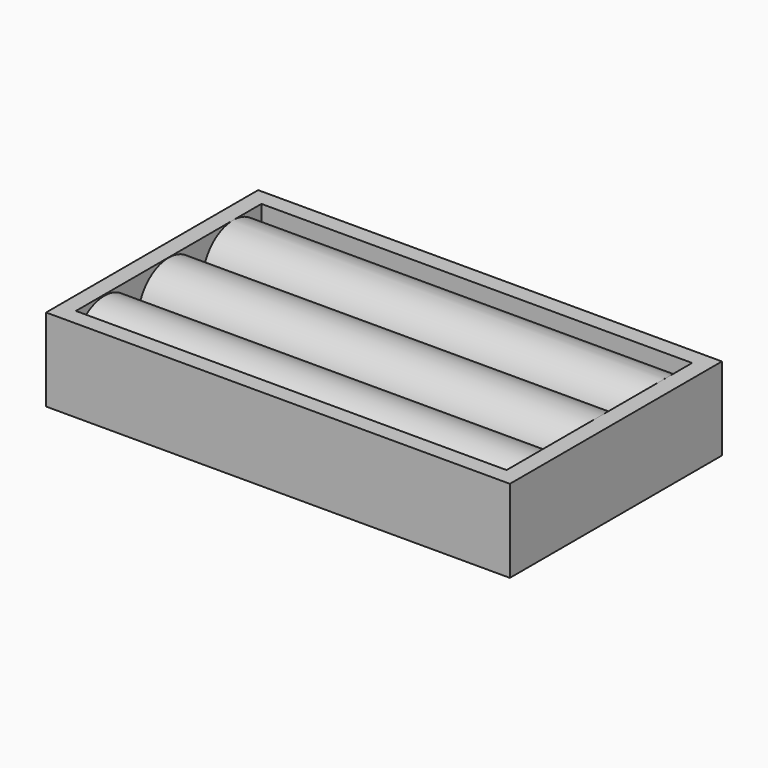
from build123d import *

# Parameters (mm, degrees)
F0_W     = 70
F0_H     = 40
F1_DEPTH = 12.5
F2_T     = -2.5
F4_R     = 5.76607
F4_R_2   = 5.765
F5_DEPTH = 65


with BuildPart() as f1:
    # F0 (on Top) → F1 (new body)
    with BuildSketch(Plane.XY):
        Rectangle(F0_W, F0_H)
    extrude(amount=F1_DEPTH)

    # F2
    f2_openings = [f1.faces().sort_by_distance(p)[0] for p in [
        (0, 0, 12.5),
    ]]
    offset(amount=F2_T, openings=f2_openings)

    # F4 (on offset) → F5 (join)
    with BuildSketch(Plane.YZ.offset(-32.5)):
        with Locations((0, 6.708693)):
            Circle(F4_R)
        with Locations((12.160433, 6.742671)):
            Circle(F4_R_2)
        with Locations((-12.139365, 6.572861)):
            Circle(F4_R_2)
    extrude(amount=F5_DEPTH)


solid = f1.part
